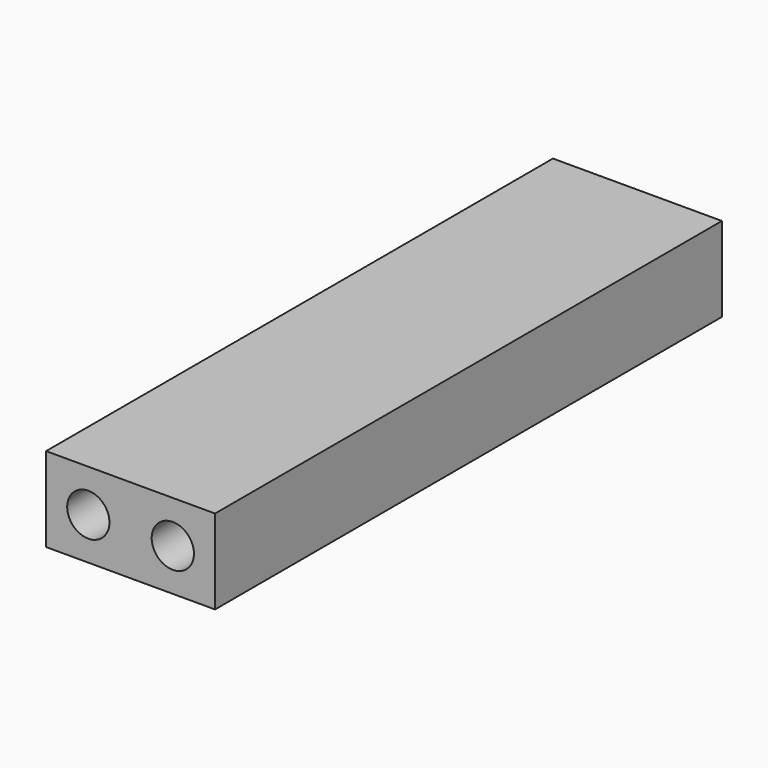
from build123d import *

# Parameters (mm, degrees)
F0_R          = 5
F1_DEPTH      = 75
F1_DEPTH_BACK = 75


with BuildPart() as f1:
    # F0 (on Front) → F1 (new body, two sides)
    with BuildSketch(Plane.XZ) as f1_sk:
        Polygon((-10, -10), (10, -10), (30, -10), (30, 10), (10, 10), (-10, 10), align=None)
        Circle(F0_R, mode=Mode.SUBTRACT)
        with Locations((20, 0)):
            Circle(F0_R, mode=Mode.SUBTRACT)
    extrude(amount=F1_DEPTH)
    extrude(f1_sk.sketch, amount=-F1_DEPTH_BACK)


solid = f1.part
